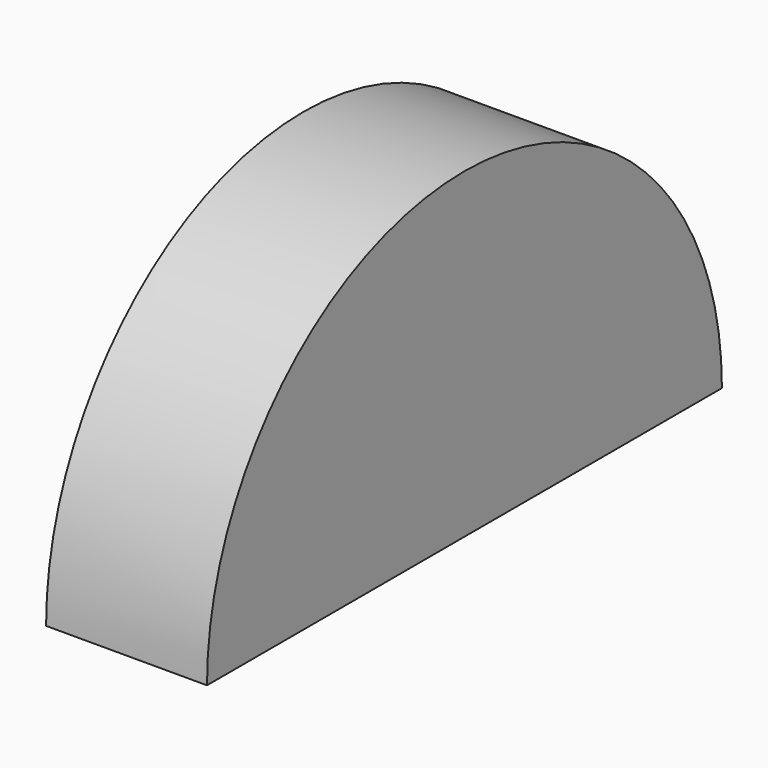
from build123d import *

# Parameters (mm, degrees)
F0_W     = 25.4
F0_H     = 50.8
F1_ANGLE = 180
F3_D     = 6.35
F3_DEPTH = 12.701


with BuildPart() as f1:
    # F0 (on Top) → F1 (revolve)
    with BuildSketch(Plane.XY):
        with Locations((0, -25.4)):
            Rectangle(F0_W, F0_H)
    revolve(axis=Axis((0, 0, 0), (-1, 0, 0)), revolution_arc=F1_ANGLE)

    # F3 (through all, one way)
    with BuildSketch(Plane.YZ):
        with Locations((0, 35.6328673661)):
            Circle(F3_D / 2)
    extrude(amount=-F3_DEPTH, mode=Mode.SUBTRACT)


solid = f1.part
